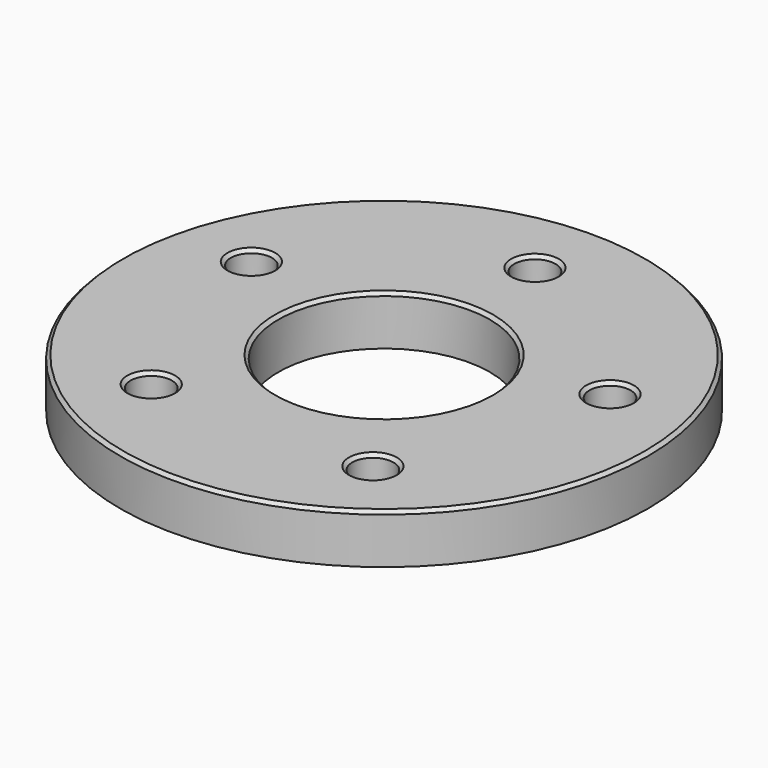
from build123d import *

# Parameters (mm, degrees)
F0_R     = 80
F0_R_2   = 6.25
F0_R_3   = 32.05
F1_DEPTH = 15
F2_SIZE  = 1


with BuildPart() as f1:
    # F0 (on Top) → F1 (new body)
    with BuildSketch(Plane.XY):
        Circle(F0_R)
        with Locations((-33.591927, -46.235321)):
            Circle(F0_R_2, mode=Mode.SUBTRACT)
        with Locations((33.591927, -46.235321)):
            Circle(F0_R_2, mode=Mode.SUBTRACT)
        with Locations((-54.35288, 17.660321)):
            Circle(F0_R_2, mode=Mode.SUBTRACT)
        Circle(F0_R_3, mode=Mode.SUBTRACT)
        with Locations((54.35288, 17.660321)):
            Circle(F0_R_2, mode=Mode.SUBTRACT)
        with Locations((0, 57.15)):
            Circle(F0_R_2, mode=Mode.SUBTRACT)
    extrude(amount=F1_DEPTH)

    # F2
    f2_edges = [f1.edges().sort_by_distance(p)[0] for p in [
        (-80, 0, 15),
        (-39.841927, -46.235321, 15),
        (27.341927, -46.235321, 15),
        (-60.60288, 17.660321, 15),
        (-32.05, 0, 15),
        (48.10288, 17.660321, 15),
        (-6.25, 57.15, 15),
    ]]
    chamfer(f2_edges, length=F2_SIZE)


solid = f1.part
